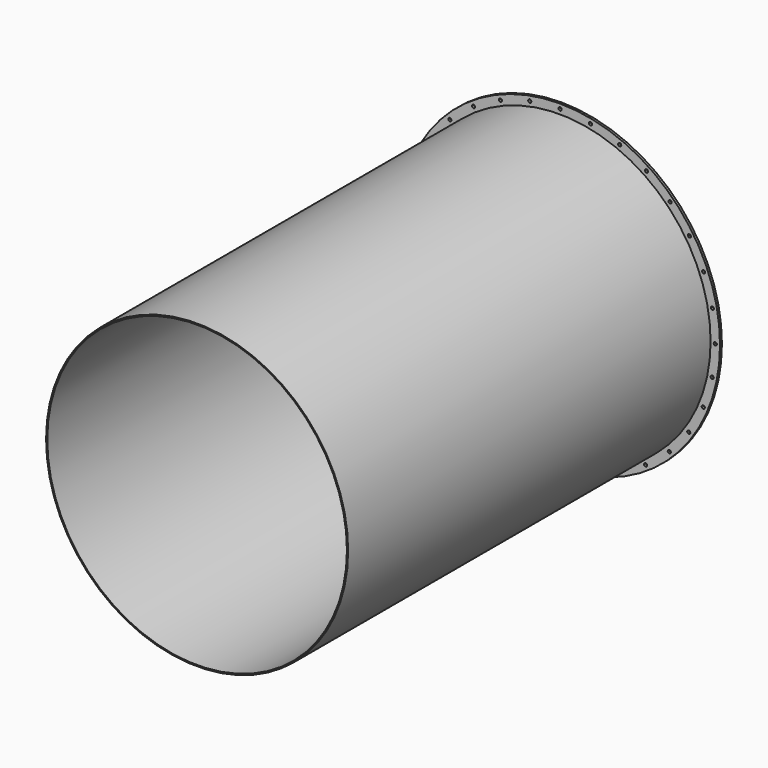
from build123d import *

# Parameters (mm, degrees)
F0_R     = 609.6
F0_R_2   = 604.8248
F1_DEPTH = 1828.8
F2_R     = 647.7
F2_R_2   = 6.35
F2_R_3   = 609.6
F3_DEPTH = 4.7752
F4_R     = 647.7
F4_R_2   = 6.35
F5_DEPTH = 4.7752
F6_R     = 22.225
F6_R_2   = 6.35
F7_DEPTH = 25.4


with BuildPart() as f1:
    # F0 (on Front) → F1 (new body)
    with BuildSketch(Plane.XZ):
        Circle(F0_R)
        Circle(F0_R_2, mode=Mode.SUBTRACT)
    extrude(amount=F1_DEPTH)


with BuildPart() as f3:
    # F2 (on face) → F3 (new body)
    with BuildSketch(Plane(origin=(0, 0, 0), x_dir=(-1, 0, 0), z_dir=(0, 1, 0))):
        Circle(F2_R)
        with Locations((-347.314533, -523.997555)):
            Circle(F2_R_2, mode=Mode.SUBTRACT)
        with Locations((-521.401971, -351.199099)):
            Circle(F2_R_2, mode=Mode.SUBTRACT)
        with Locations((-442.867833, -446.171385)):
            Circle(F2_R_2, mode=Mode.SUBTRACT)
        with Locations((-238.41413, -581.686793)):
            Circle(F2_R_2, mode=Mode.SUBTRACT)
        with Locations((-120.351606, -617.022134)):
            Circle(F2_R_2, mode=Mode.SUBTRACT)
        with Locations((-579.898924, -242.730428)):
            Circle(F2_R_2, mode=Mode.SUBTRACT)
        with Locations((-616.110686, -124.933763)):
            Circle(F2_R_2, mode=Mode.SUBTRACT)
        with Locations((-628.64566, -2.335964)):
            Circle(F2_R_2, mode=Mode.SUBTRACT)
        with Locations((2.335964, -628.64566)):
            Circle(F2_R_2, mode=Mode.SUBTRACT)
        with Locations((124.933763, -616.110686)):
            Circle(F2_R_2, mode=Mode.SUBTRACT)
        with Locations((242.730428, -579.898924)):
            Circle(F2_R_2, mode=Mode.SUBTRACT)
        with Locations((351.199099, -521.401971)):
            Circle(F2_R_2, mode=Mode.SUBTRACT)
        with Locations((446.171385, -442.867833)):
            Circle(F2_R_2, mode=Mode.SUBTRACT)
        with Locations((523.997555, -347.314533)):
            Circle(F2_R_2, mode=Mode.SUBTRACT)
        with Locations((581.686793, -238.41413)):
            Circle(F2_R_2, mode=Mode.SUBTRACT)
        with Locations((617.022134, -120.351606)):
            Circle(F2_R_2, mode=Mode.SUBTRACT)
        with Locations((-617.022134, 120.351606)):
            Circle(F2_R_2, mode=Mode.SUBTRACT)
        with Locations((-581.686793, 238.41413)):
            Circle(F2_R_2, mode=Mode.SUBTRACT)
        with Locations((-523.997555, 347.314533)):
            Circle(F2_R_2, mode=Mode.SUBTRACT)
        with Locations((-446.171385, 442.867833)):
            Circle(F2_R_2, mode=Mode.SUBTRACT)
        with Locations((-351.199099, 521.401971)):
            Circle(F2_R_2, mode=Mode.SUBTRACT)
        with Locations((-242.730428, 579.898924)):
            Circle(F2_R_2, mode=Mode.SUBTRACT)
        with Locations((-124.933763, 616.110686)):
            Circle(F2_R_2, mode=Mode.SUBTRACT)
        with Locations((-2.335964, 628.64566)):
            Circle(F2_R_2, mode=Mode.SUBTRACT)
        Circle(F2_R_3, mode=Mode.SUBTRACT)
        with Locations((628.64566, 2.335964)):
            Circle(F2_R_2, mode=Mode.SUBTRACT)
        with Locations((616.110686, 124.933763)):
            Circle(F2_R_2, mode=Mode.SUBTRACT)
        with Locations((579.898924, 242.730428)):
            Circle(F2_R_2, mode=Mode.SUBTRACT)
        with Locations((120.351606, 617.022134)):
            Circle(F2_R_2, mode=Mode.SUBTRACT)
        with Locations((238.41413, 581.686793)):
            Circle(F2_R_2, mode=Mode.SUBTRACT)
        with Locations((442.867833, 446.171385)):
            Circle(F2_R_2, mode=Mode.SUBTRACT)
        with Locations((521.401971, 351.199099)):
            Circle(F2_R_2, mode=Mode.SUBTRACT)
        with Locations((347.314533, 523.997555)):
            Circle(F2_R_2, mode=Mode.SUBTRACT)
    extrude(amount=F3_DEPTH)


with BuildPart() as f5:
    # F4 (on face) → F5 (new body)
    with BuildSketch(Plane(origin=(0, 4.7752, 0), x_dir=(-1, 0, 0), z_dir=(0, 1, 0))):
        Circle(F4_R)
        with Locations((-347.314533, -523.997555)):
            Circle(F4_R_2, mode=Mode.SUBTRACT)
        with Locations((-521.401971, -351.199099)):
            Circle(F4_R_2, mode=Mode.SUBTRACT)
        with Locations((-442.867833, -446.171385)):
            Circle(F4_R_2, mode=Mode.SUBTRACT)
        with Locations((-238.41413, -581.686793)):
            Circle(F4_R_2, mode=Mode.SUBTRACT)
        with Locations((-120.351606, -617.022134)):
            Circle(F4_R_2, mode=Mode.SUBTRACT)
        with Locations((-579.898924, -242.730428)):
            Circle(F4_R_2, mode=Mode.SUBTRACT)
        with Locations((-616.110686, -124.933763)):
            Circle(F4_R_2, mode=Mode.SUBTRACT)
        with Locations((-628.64566, -2.335964)):
            Circle(F4_R_2, mode=Mode.SUBTRACT)
        with Locations((2.335964, -628.64566)):
            Circle(F4_R_2, mode=Mode.SUBTRACT)
        with Locations((124.933763, -616.110686)):
            Circle(F4_R_2, mode=Mode.SUBTRACT)
        with Locations((242.730428, -579.898924)):
            Circle(F4_R_2, mode=Mode.SUBTRACT)
        with Locations((351.199099, -521.401971)):
            Circle(F4_R_2, mode=Mode.SUBTRACT)
        with Locations((446.171385, -442.867833)):
            Circle(F4_R_2, mode=Mode.SUBTRACT)
        with Locations((523.997555, -347.314533)):
            Circle(F4_R_2, mode=Mode.SUBTRACT)
        with Locations((581.686793, -238.41413)):
            Circle(F4_R_2, mode=Mode.SUBTRACT)
        with Locations((617.022134, -120.351606)):
            Circle(F4_R_2, mode=Mode.SUBTRACT)
        with Locations((-617.022134, 120.351606)):
            Circle(F4_R_2, mode=Mode.SUBTRACT)
        with Locations((-581.686793, 238.41413)):
            Circle(F4_R_2, mode=Mode.SUBTRACT)
        with Locations((-523.997555, 347.314533)):
            Circle(F4_R_2, mode=Mode.SUBTRACT)
        with Locations((-446.171385, 442.867833)):
            Circle(F4_R_2, mode=Mode.SUBTRACT)
        with Locations((-351.199099, 521.401971)):
            Circle(F4_R_2, mode=Mode.SUBTRACT)
        with Locations((-242.730428, 579.898924)):
            Circle(F4_R_2, mode=Mode.SUBTRACT)
        with Locations((-124.933763, 616.110686)):
            Circle(F4_R_2, mode=Mode.SUBTRACT)
        with Locations((-2.335964, 628.64566)):
            Circle(F4_R_2, mode=Mode.SUBTRACT)
        with Locations((628.64566, 2.335964)):
            Circle(F4_R_2, mode=Mode.SUBTRACT)
        with Locations((616.110686, 124.933763)):
            Circle(F4_R_2, mode=Mode.SUBTRACT)
        with Locations((579.898924, 242.730428)):
            Circle(F4_R_2, mode=Mode.SUBTRACT)
        with Locations((120.351606, 617.022134)):
            Circle(F4_R_2, mode=Mode.SUBTRACT)
        with Locations((238.41413, 581.686793)):
            Circle(F4_R_2, mode=Mode.SUBTRACT)
        with Locations((442.867833, 446.171385)):
            Circle(F4_R_2, mode=Mode.SUBTRACT)
        with Locations((521.401971, 351.199099)):
            Circle(F4_R_2, mode=Mode.SUBTRACT)
        with Locations((347.314533, 523.997555)):
            Circle(F4_R_2, mode=Mode.SUBTRACT)
    extrude(amount=F5_DEPTH)

    # F6 (on face) → F7 (cut)
    with BuildSketch(Plane(origin=(0, 9.5504, 0), x_dir=(-1, 0, 0), z_dir=(0, 1, 0))):
        Circle(F6_R)
        with Locations((50.8, 50.8)):
            Circle(F6_R_2)
        with Locations((-50.8, 50.8)):
            Circle(F6_R_2)
        with Locations((-50.8, -50.8)):
            Circle(F6_R_2)
        with Locations((50.8, -50.8)):
            Circle(F6_R_2)
    extrude(amount=-F7_DEPTH, mode=Mode.SUBTRACT)


solid = Compound([f1.part, f3.part, f5.part])
